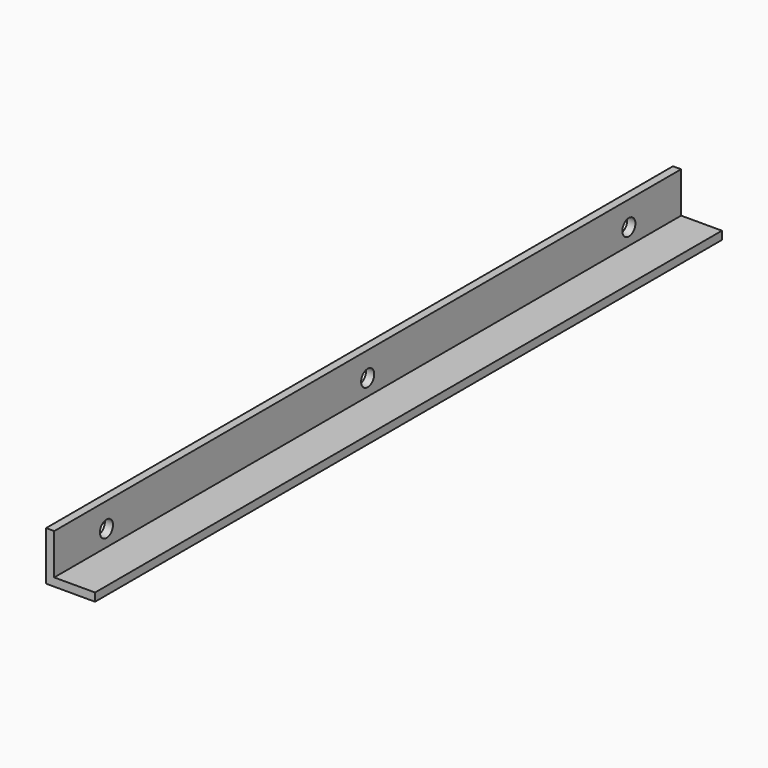
from build123d import *

# Parameters (mm, degrees)
F1_DEPTH = 609.6
F2_R     = 6.35
F3_DEPTH = 25.4


with BuildPart() as f1:
    # F0 (on Front) → F1 (new body)
    with BuildSketch(Plane.XZ):
        Polygon((0, 38.1), (0, 0), (38.1, 0), (38.1, 6.35), (6.35, 6.35), (6.35, 38.1), align=None)
    extrude(amount=F1_DEPTH)

    # F2 (on Right) → F3 (cut)
    with BuildSketch(Plane.YZ):
        with Locations((-50.8, 19.05)):
            Circle(F2_R)
        with Locations((-304.8, 19.05)):
            Circle(F2_R)
        with Locations((-558.8, 19.05)):
            Circle(F2_R)
    extrude(amount=F3_DEPTH, mode=Mode.SUBTRACT)


solid = f1.part
